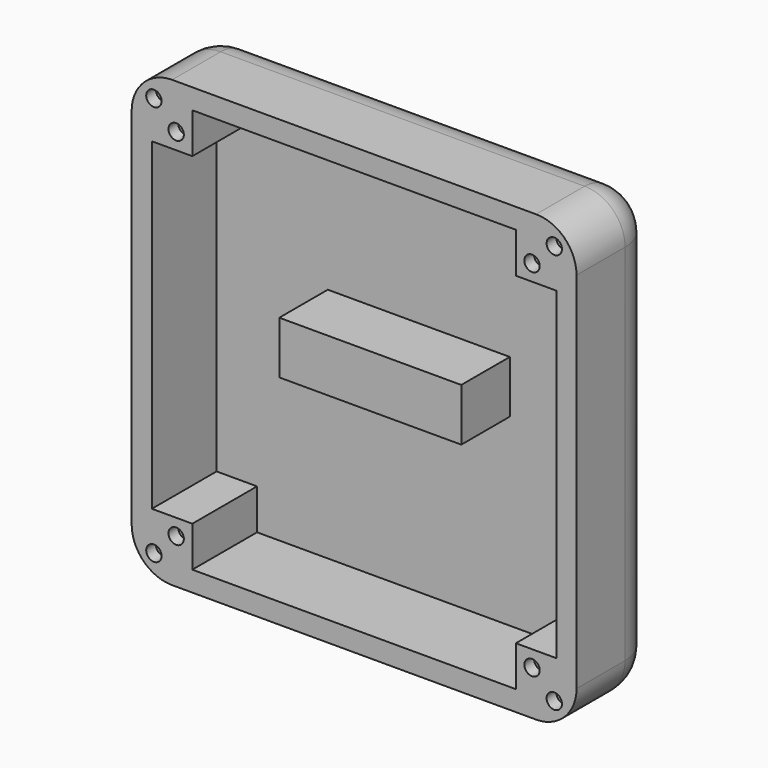
from build123d import *

# Parameters (mm, degrees)
F0_W      = 110
F0_H      = 110
F1_DEPTH  = 25
F2_R      = 10
F3_W      = 110
F3_H      = 110
F4_DEPTH  = 26
F6_DEPTH  = 20
F7_W      = 45
F7_H      = 13
F7_W_2    = 41
F7_H_2    = 9
F8_DEPTH  = 15
F9_W      = 45
F9_H      = 13
F10_DEPTH = 2
F11_R     = 1.9
F12_DEPTH = 3


with BuildPart() as f1:
    # F0 (on Front) → F1 (new body, symmetric)
    with BuildSketch(Plane.XZ):
        Rectangle(F0_W, F0_H)
    extrude(amount=F1_DEPTH, both=True)

    # F2
    f2_edges = [f1.edges().sort_by_distance(p)[0] for p in [
        (0, -25, 55),
        (-55, -25, 0),
        (0, -25, -55),
        (55, -25, 0),
        (55, 25, 0),
        (55, 0, 55),
        (55, 0, -55),
        (0, 25, 55),
        (-55, 0, 55),
        (-55, 25, 0),
        (-55, 0, -55),
        (0, 25, -55),
    ]]
    fillet(f2_edges, radius=F2_R)

    # F3 (on Front) → F4 (cut)
    with BuildSketch(Plane.XZ):
        Rectangle(F3_W, F3_H)
    extrude(amount=F4_DEPTH, mode=Mode.SUBTRACT)

    # F5 (on Front) → F6 (cut)
    with BuildSketch(Plane.XZ):
        Polygon((40, 40), (40, 50), (-40, 50), (-40, 40), (-50, 40), (-50, -40), (-40, -40), (-40, -50), (40, -50), (40, -40), (50, -40), (50, 40), align=None)
    extrude(amount=-F6_DEPTH, mode=Mode.SUBTRACT)

    # F7 (on face) → F8 (join)
    with BuildSketch(Plane.XZ.offset(-20)):
        with Locations((0, 2)):
            Rectangle(F7_W, F7_H)
        with Locations((0, 2)):
            Rectangle(F7_W_2, F7_H_2, mode=Mode.SUBTRACT)
    extrude(amount=F8_DEPTH)

    # F9 (on face) → F10 (join)
    with BuildSketch(Plane.XZ.offset(-5)):
        with Locations((0, 2)):
            Rectangle(F9_W, F9_H)
    extrude(amount=-F10_DEPTH)

    # F11 (on face) → F12 (cut)
    with BuildSketch(Plane.XZ):
        with Locations((49.5, 49.5)):
            Circle(F11_R)
        with Locations((44, 44)):
            Circle(F11_R)
        with Locations((-44, 44)):
            Circle(F11_R)
        with Locations((-49.5, 49.5)):
            Circle(F11_R)
        with Locations((-44, -44)):
            Circle(F11_R)
        with Locations((-49.5, -49.5)):
            Circle(F11_R)
        with Locations((44, -44)):
            Circle(F11_R)
        with Locations((49.5, -49.5)):
            Circle(F11_R)
    extrude(amount=-F12_DEPTH, mode=Mode.SUBTRACT)


solid = f1.part
